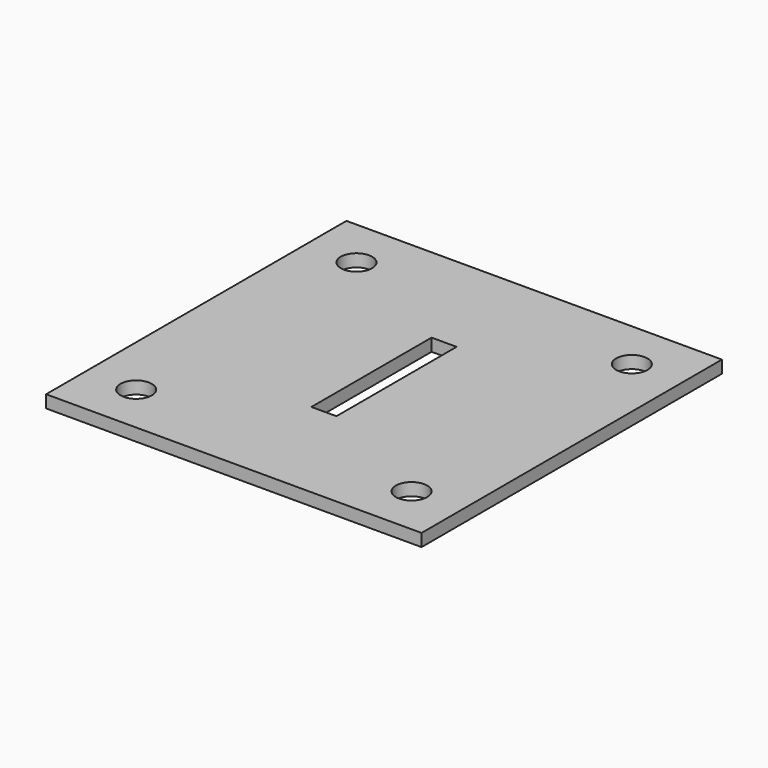
from build123d import *

# Parameters (mm, degrees)
F0_W     = 38.1
F0_H     = 38.1
F1_DEPTH = 1.27
F3_R     = 1.5875
F4_DEPTH = 25.4
F7_W     = 2.54
F7_H     = 15.24
F8_DEPTH = 25.4


with BuildPart() as f1:
    # F0 (on Top) → F1 (new body)
    with BuildSketch(Plane.XY):
        Rectangle(F0_W, F0_H)
    extrude(amount=F1_DEPTH)

    # F3 (on Top) → F4 (cut)
    with BuildSketch(Plane.XY):
        with Locations((13.97, 13.97)):
            Circle(F3_R)
    extrude(amount=F4_DEPTH, mode=Mode.SUBTRACT)

    # F5: F1 across plane


with BuildPart() as f1_1:
    add(f1.part)
    add(f1.part.mirror(Plane.YZ), mode=Mode.INTERSECT)

    # F6: F1 across plane


with BuildPart() as f1_2:
    add(f1_1.part)
    add(f1_1.part.mirror(Plane.XZ), mode=Mode.INTERSECT)

    # F7 (on Top) → F8 (cut)
    with BuildSketch(Plane.XY):
        Rectangle(F7_W, F7_H)
    extrude(amount=F8_DEPTH, mode=Mode.SUBTRACT)


solid = f1_2.part
